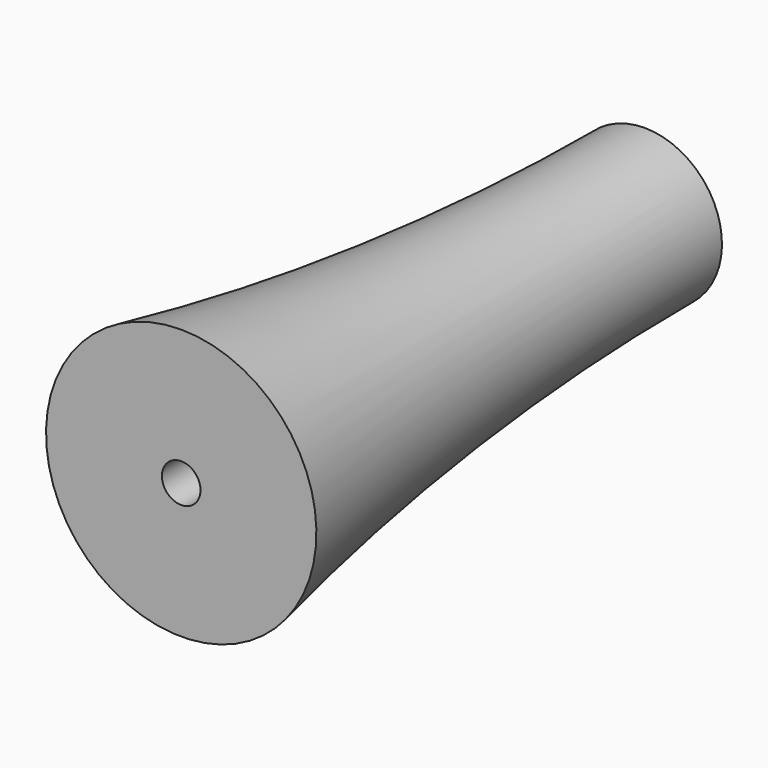
from build123d import *

# Parameters (mm, degrees)
F2_R     = 2.5
F7_DEPTH = 150.001
F8_R     = 25
F9_DEPTH = 75.001


with BuildPart() as f6:
    # F5 (on Right) → F6 (revolve)
    with BuildSketch(Plane.YZ):
        with BuildLine():
            Line((-75, 17.5), (-75, 0))
            Line((-75, 0), (0, 0))
            Line((0, 0), (0, 10))
            ThreePointArc((0, 10), (-37.687034, 11.879664), (-75, 17.5))
        make_face()
        with BuildLine():
            Line((0, 10), (0, 0))
            Line((0, 0), (75, 0))
            Line((75, 0), (75, 17.5))
            ThreePointArc((75, 17.5), (37.687034, 11.879664), (0, 10))
        make_face()
    revolve(axis=Axis((0, 0, 0), (0, 1, 0)))

    # F2 (on offset) → F7 (cut, through all)
    with BuildSketch(Plane.XZ.offset(75)):
        Circle(F2_R)
    extrude(amount=-F7_DEPTH, mode=Mode.SUBTRACT)

    # F8 (on Front) → F9 (cut, through all)
    with BuildSketch(Plane.XZ):
        Circle(F8_R)
    extrude(amount=-F9_DEPTH, mode=Mode.SUBTRACT)


solid = f6.part
